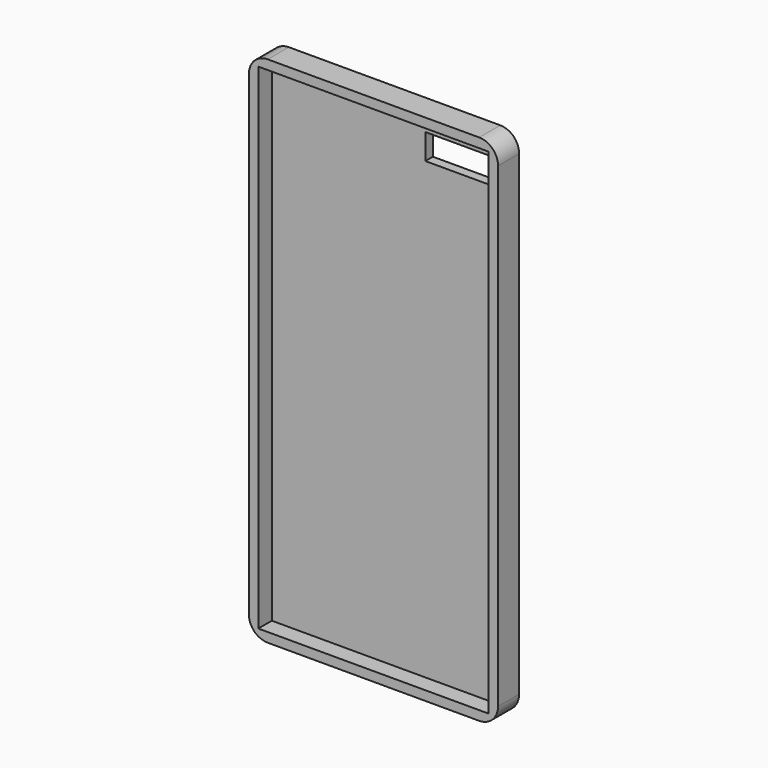
from build123d import *

# Parameters (mm, degrees)
F0_W     = 67.1
F0_H     = 138.3
F1_DEPTH = 3.55
F2_T     = -2.54
F3_R     = 5.08
F4_W     = 18.64754
F4_H     = 6.885249
F5_DEPTH = 12.5


with BuildPart() as f1:
    # F0 (on Front) → F1 (new body, symmetric)
    with BuildSketch(Plane.XZ):
        Rectangle(F0_W, F0_H)
    extrude(amount=F1_DEPTH, both=True)

    # F2
    f2_openings = [f1.faces().sort_by_distance(p)[0] for p in [
        (0, -3.55, 0),
    ]]
    offset(amount=F2_T, openings=f2_openings)

    # F3
    f3_edges = [f1.edges().sort_by_distance(p)[0] for p in [
        (33.55, 0, 69.15),
        (-33.55, 0, 69.15),
        (-33.55, 0, -69.15),
        (33.55, 0, -69.15),
    ]]
    fillet(f3_edges, radius=F3_R)

    # F4 (on Front) → F5 (cut, symmetric)
    with BuildSketch(Plane.XZ):
        with Locations((19.651639, 59.241807)):
            Rectangle(F4_W, F4_H)
    extrude(amount=F5_DEPTH, both=True, mode=Mode.SUBTRACT)


solid = f1.part
